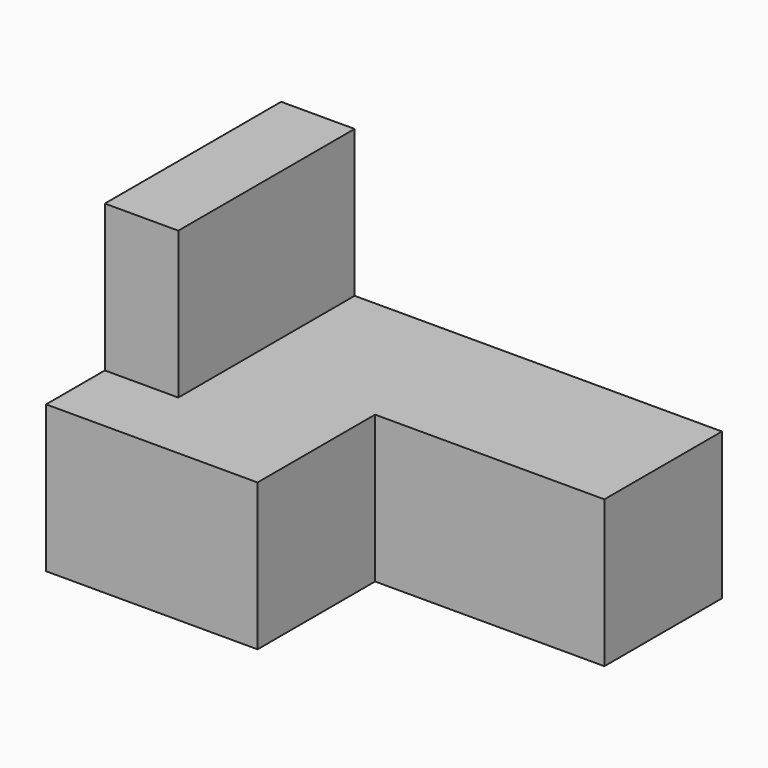
from build123d import *

# Parameters (mm, degrees)
F1_DEPTH = 25.4
F2_W     = 20.863877578
F2_H     = 13.4999741197
F3_DEPTH = 25.401
F4_W     = 7.9661535591
F4_H     = 12.7
F5_DEPTH = 25.4


with BuildPart() as f1:
    # F0 (on Front) → F1 (new body)
    with BuildSketch(Plane.XZ):
        Polygon((6.35, 0), (0, 0), (0, -25.4), (38.1, -25.4), (38.1, -12.7), (6.35, -12.7), align=None)
    extrude(amount=F1_DEPTH)

    # F2 (on Top) → F3 (cut, through all)
    with BuildSketch(Plane.XY):
        with Locations((28.710431435, -19.4499870598)):
            Rectangle(F2_W, F2_H)
    extrude(amount=-F3_DEPTH, mode=Mode.SUBTRACT)

    # F4 (on Right) → F5 (cut)
    with BuildSketch(Plane.YZ):
        with Locations((-23.0330767795, -6.35)):
            Rectangle(F4_W, F4_H)
    extrude(amount=F5_DEPTH, mode=Mode.SUBTRACT)


solid = f1.part
